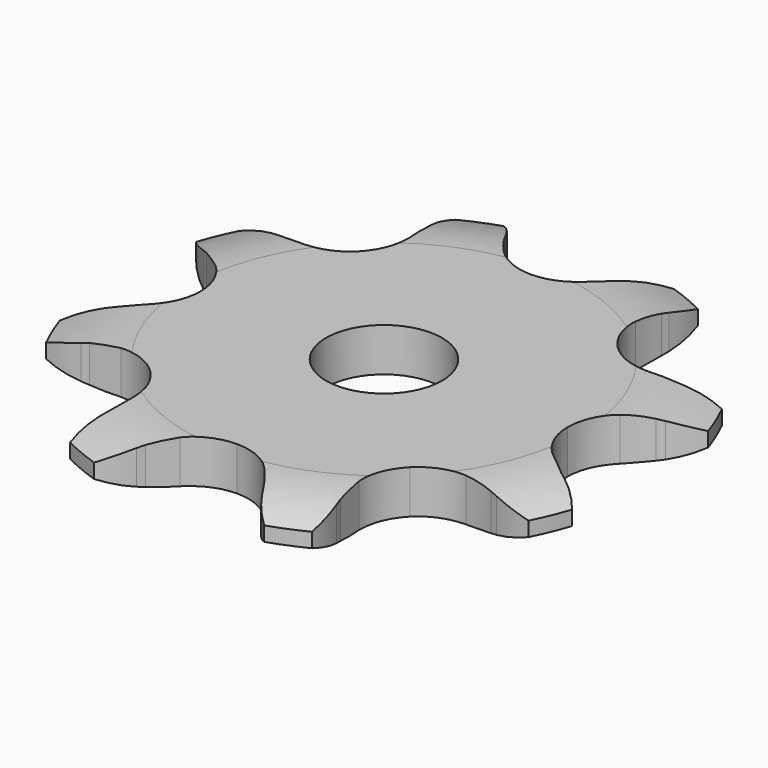
from build123d import *

# Parameters (mm, degrees)
PAD_DEPTH         = 3
SKETCH001_R       = 4
POCKET_DEPTH      = 0.001
POCKET_DEPTH_BACK = -3.001


with BuildPart() as part:
    # Sprocket → Pad (new body)
    with BuildSketch(Plane.XY):
        with BuildLine():
            ThreePointArc((-7.750718, 18.711888), (-5.807188, 17.609119), (-4.336956, 15.926317))
            Line((-4.336956, 15.926317), (-4.068236, 15.487805))
            ThreePointArc((-4.068236, 15.487805), (-3.521035, 14.684133), (-2.899325, 13.936608))
            ThreePointArc((-2.899325, 13.936608), (-1.583791, 12.99391), (0, 12.660875))
            ThreePointArc((0, 12.660875), (1.583791, 12.99391), (2.899325, 13.936608))
            ThreePointArc((2.899325, 13.936608), (3.521035, 14.684133), (4.068236, 15.487805))
            Line((4.068236, 15.487805), (4.336956, 15.926317))
            ThreePointArc((4.336956, 15.926317), (5.807188, 17.609119), (7.750718, 18.711888))
            ThreePointArc((7.750718, 18.711888), (8.345226, 16.557829), (8.194916, 14.328297))
            Line((8.194916, 14.328297), (8.074855, 13.828209))
            ThreePointArc((8.074855, 13.828209), (7.893503, 12.872998), (7.804538, 11.904802))
            ThreePointArc((7.804538, 11.904802), (8.068172, 10.307992), (8.95259, 8.95259))
            ThreePointArc((8.95259, 8.95259), (10.307992, 8.068172), (11.904802, 7.804538))
            Line((11.904802, 7.804538), (13.828209, 8.074855))
            ThreePointArc((13.828209, 8.074855), (14.077491, 8.138059), (14.328297, 8.194916))
            ThreePointArc((14.328297, 8.194916), (16.557829, 8.345226), (18.711888, 7.750718))
            ThreePointArc((18.711888, 7.750718), (17.609119, 5.807188), (15.926317, 4.336956))
            Line((15.926317, 4.336956), (15.487805, 4.068236))
            ThreePointArc((15.487805, 4.068236), (14.684133, 3.521035), (13.936608, 2.899325))
            ThreePointArc((13.936608, 2.899325), (12.99391, 1.583791), (12.660875, 0))
            ThreePointArc((12.660875, 0), (12.99391, -1.583791), (13.936608, -2.899325))
            Line((13.936608, -2.899325), (15.487805, -4.068236))
            ThreePointArc((15.487805, -4.068236), (15.708766, -4.199813), (15.926317, -4.336956))
            ThreePointArc((15.926317, -4.336956), (17.609119, -5.807188), (18.711888, -7.750718))
            ThreePointArc((18.711888, -7.750718), (16.557829, -8.345226), (14.328297, -8.194916))
            Line((14.328297, -8.194916), (13.828209, -8.074855))
            ThreePointArc((13.828209, -8.074855), (12.872998, -7.893503), (11.904802, -7.804538))
            ThreePointArc((11.904802, -7.804538), (10.307992, -8.068172), (8.95259, -8.95259))
            ThreePointArc((8.95259, -8.95259), (8.068172, -10.307992), (7.804538, -11.904802))
            Line((7.804538, -11.904802), (8.074855, -13.828209))
            ThreePointArc((8.074855, -13.828209), (8.138059, -14.077491), (8.194916, -14.328297))
            ThreePointArc((8.194916, -14.328297), (8.345226, -16.557829), (7.750718, -18.711888))
            ThreePointArc((7.750718, -18.711888), (5.807188, -17.609119), (4.336956, -15.926317))
            Line((4.336956, -15.926317), (4.068236, -15.487805))
            ThreePointArc((4.068236, -15.487805), (3.521035, -14.684133), (2.899325, -13.936608))
            ThreePointArc((2.899325, -13.936608), (1.583791, -12.99391), (0, -12.660875))
            ThreePointArc((0, -12.660875), (-1.583791, -12.99391), (-2.899325, -13.936608))
            Line((-2.899325, -13.936608), (-4.068236, -15.487805))
            ThreePointArc((-4.068236, -15.487805), (-4.199813, -15.708766), (-4.336956, -15.926317))
            ThreePointArc((-4.336956, -15.926317), (-5.807188, -17.609119), (-7.750718, -18.711888))
            ThreePointArc((-7.750718, -18.711888), (-8.345226, -16.557829), (-8.194916, -14.328297))
            Line((-8.194916, -14.328297), (-8.074855, -13.828209))
            ThreePointArc((-8.074855, -13.828209), (-7.893503, -12.872998), (-7.804538, -11.904802))
            ThreePointArc((-7.804538, -11.904802), (-8.068172, -10.307992), (-8.95259, -8.95259))
            ThreePointArc((-8.95259, -8.95259), (-10.307992, -8.068172), (-11.904802, -7.804538))
            Line((-11.904802, -7.804538), (-13.828209, -8.074855))
            ThreePointArc((-13.828209, -8.074855), (-14.077491, -8.138059), (-14.328297, -8.194916))
            ThreePointArc((-14.328297, -8.194916), (-16.557829, -8.345226), (-18.711888, -7.750718))
            ThreePointArc((-18.711888, -7.750718), (-17.609119, -5.807188), (-15.926317, -4.336956))
            Line((-15.926317, -4.336956), (-15.487805, -4.068236))
            ThreePointArc((-15.487805, -4.068236), (-14.684133, -3.521035), (-13.936608, -2.899325))
            ThreePointArc((-13.936608, -2.899325), (-12.99391, -1.583791), (-12.660875, 0))
            ThreePointArc((-12.660875, 0), (-12.99391, 1.583791), (-13.936608, 2.899325))
            Line((-13.936608, 2.899325), (-15.487805, 4.068236))
            ThreePointArc((-15.487805, 4.068236), (-15.708766, 4.199813), (-15.926317, 4.336956))
            ThreePointArc((-15.926317, 4.336956), (-17.609119, 5.807188), (-18.711888, 7.750718))
            ThreePointArc((-18.711888, 7.750718), (-16.557829, 8.345226), (-14.328297, 8.194916))
            Line((-14.328297, 8.194916), (-13.828209, 8.074855))
            ThreePointArc((-13.828209, 8.074855), (-12.872998, 7.893503), (-11.904802, 7.804538))
            ThreePointArc((-11.904802, 7.804538), (-10.307992, 8.068172), (-8.95259, 8.95259))
            ThreePointArc((-8.95259, 8.95259), (-8.068172, 10.307992), (-7.804538, 11.904802))
            Line((-7.804538, 11.904802), (-8.074855, 13.828209))
            ThreePointArc((-8.074855, 13.828209), (-8.138059, 14.077491), (-8.194916, 14.328297))
            ThreePointArc((-8.194916, 14.328297), (-8.345226, 16.557829), (-7.750718, 18.711888))
        make_face()
    extrude(amount=PAD_DEPTH)

    # Sketch → Groove (revolve, cut)
    with BuildSketch(Plane.XZ):
        with BuildLine():
            Line((13.6, 0), (18.6, 0))
            Line((23.6, 0), (18.6, 0))
            Line((23.6, 3), (23.6, 0))
            Line((18.6, 3), (23.6, 3))
            Line((13.6, 3), (18.6, 3))
            ThreePointArc((18.6, 2), (16.14951, 2.747549), (13.6, 3))
            Line((18.6, 1), (18.6, 2))
            ThreePointArc((13.6, 0), (16.14951, 0.252451), (18.6, 1))
        make_face()
    revolve(axis=Axis((0, 0, 0), (0, 0, 1)), mode=Mode.SUBTRACT)

    # Sketch001 → Pocket (cut, two sides)
    with BuildSketch(Plane.XY) as pocket_sk:
        Circle(SKETCH001_R)
    extrude(amount=-POCKET_DEPTH, mode=Mode.SUBTRACT)
    extrude(pocket_sk.sketch, amount=-POCKET_DEPTH_BACK, mode=Mode.SUBTRACT)


solid = part.part
